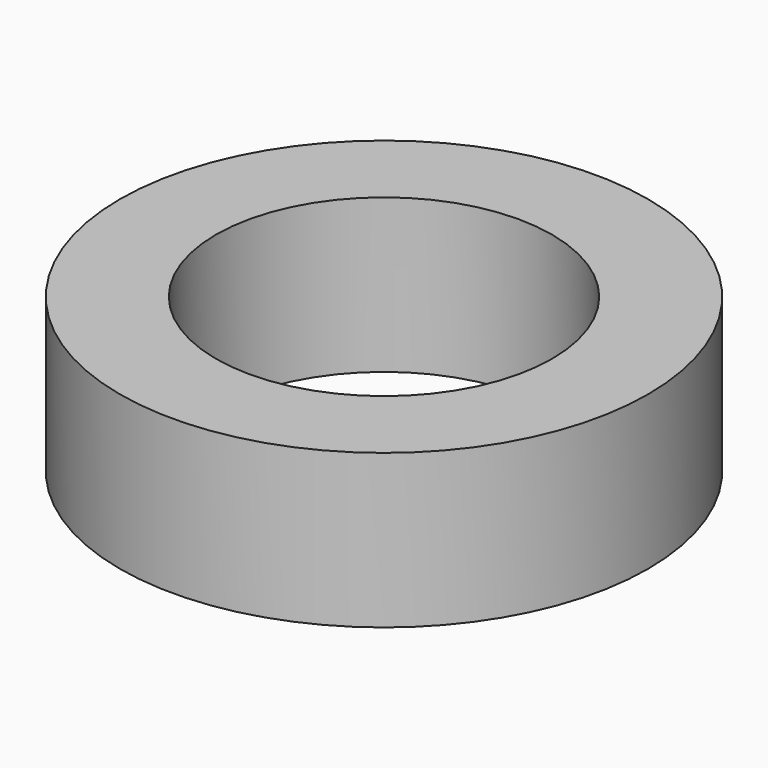
from build123d import *

# Parameters (mm, degrees)
SKETCH_R     = 2.75
PAD_DEPTH    = 1.6
SKETCH001_R  = 1.75
POCKET_DEPTH = 5


with BuildPart() as part:
    # Sketch → Pad (new body)
    with BuildSketch(Plane.XY):
        Circle(SKETCH_R)
    extrude(amount=PAD_DEPTH)

    # Sketch001 (on Face3 of Pad) → Pocket (cut)
    with BuildSketch(Plane.XY.offset(1.6)):
        Circle(SKETCH001_R)
    extrude(amount=-POCKET_DEPTH, mode=Mode.SUBTRACT)


solid = part.part
